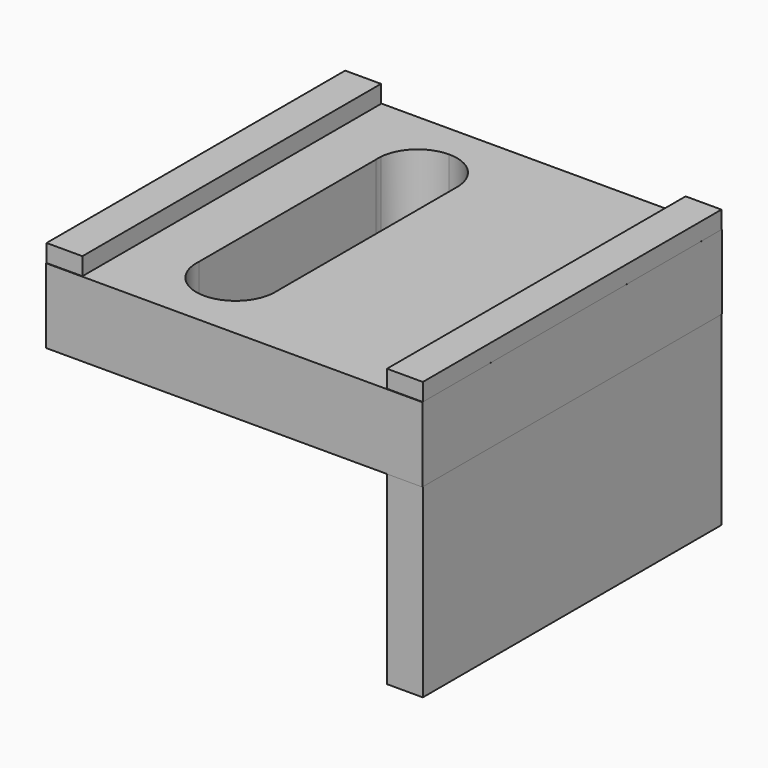
from build123d import *

# Parameters (mm, degrees)
F1_DEPTH      = 12.7
F2_W          = 6.095566
F2_H          = 3.35368
F3_DEPTH      = 31.75
F3_DEPTH_BACK = 31.75
F4_DEPTH      = 31.75
F4_DEPTH_BACK = 31.75
F2_H_2        = 43.890321
F5_DEPTH      = 31.75
F5_DEPTH_BACK = 31.75


with BuildPart() as f1:
    # F0 (on Top) → F1 (new body)
    with BuildSketch(Plane.XY):
        with BuildLine():
            Line((-9.752161, 31.851601), (-32.003999, 31.851601))
            Line((-32.003999, 31.851601), (-32.003999, -31.851601))
            Line((-32.003999, -31.851601), (-9.752161, -31.851601))
            Line((-9.752161, -31.851601), (-9.752161, -26.039103))
            ThreePointArc((-9.752161, -26.039103), (-14.648011, -23.905912), (-16.419219, -18.867789))
            Line((-16.419219, -18.867789), (-16.419219, 18.867789))
            ThreePointArc((-16.419219, 18.867789), (-16.436948, 19.354316), (-16.419219, 19.840844))
            ThreePointArc((-16.419219, 19.840844), (-14.303756, 24.250167), (-9.752161, 26.039103))
            Line((-9.752161, 26.039103), (-9.752161, 31.851601))
        make_face()
        with BuildLine():
            Line((32.003999, 31.851601), (-9.752161, 31.851601))
            Line((-9.752161, 31.851601), (-9.752161, 26.039103))
            ThreePointArc((-9.752161, 26.039103), (-5.02968, 24.085548), (-3.067385, 19.366693))
            ThreePointArc((-3.067385, 19.366693), (-3.067373, 19.354318), (-3.067385, 19.341944))
            Line((-3.067385, 19.341944), (-3.067373, -19.354314))
            ThreePointArc((-3.067373, -19.354314), (-5.025302, -24.081174), (-9.752161, -26.039103))
            Line((-9.752161, -26.039103), (-9.752161, -31.851601))
            Line((-9.752161, -31.851601), (32.003999, -31.851601))
            Line((32.003999, -31.851601), (32.003999, 31.851601))
        make_face()
    extrude(amount=F1_DEPTH)


with BuildPart() as f3:
    # F2 (on Front) → F3 (new body, two sides)
    with BuildSketch(Plane.XZ) as f3_sk:
        with Locations((28.95578, 14.02036)):
            Rectangle(F2_W, F2_H)
    extrude(amount=F3_DEPTH)
    extrude(f3_sk.sketch, amount=-F3_DEPTH_BACK)


with BuildPart() as f4:
    # F2 (on Front) → F4 (new body, two sides)
    with BuildSketch(Plane.XZ) as f4_sk:
        with Locations((-28.95578, 14.02036)):
            Rectangle(F2_W, F2_H)
    extrude(amount=F4_DEPTH)
    extrude(f4_sk.sketch, amount=-F4_DEPTH_BACK)


with BuildPart() as f5:
    # F2 (on Front) → F5 (new body, two sides)
    with BuildSketch(Plane.XZ) as f5_sk:
        with Locations((28.95578, -9.60164)):
            Rectangle(F2_W, F2_H_2)
    extrude(amount=F5_DEPTH)
    extrude(f5_sk.sketch, amount=-F5_DEPTH_BACK)


solid = Compound([f1.part, f3.part, f4.part, f5.part])
